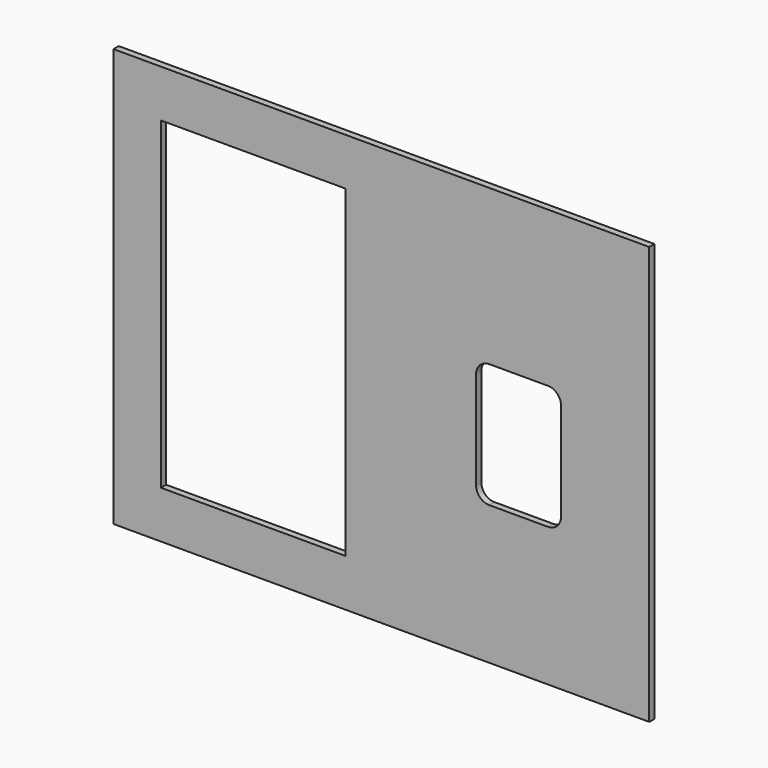
from build123d import *

# Parameters (mm, degrees)
F0_W     = 520.7
F0_H     = 406.4
F0_W_2   = 179.3875
F0_H_2   = 314.325
F1_DEPTH = 6.35


with BuildPart() as f1:
    # F0 (on Front) → F1 (new body)
    with BuildSketch(Plane.XZ):
        Rectangle(F0_W, F0_H)
        with Locations((-124.61875, 0)):
            Rectangle(F0_W_2, F0_H_2, mode=Mode.SUBTRACT)
        with BuildLine():
            ThreePointArc((92.075, 39.6875), (95.794744, 48.667756), (104.775, 52.3875))
            Line((104.775, 52.3875), (161.925, 52.3875))
            ThreePointArc((161.925, 52.3875), (170.905256, 48.667756), (174.625, 39.6875))
            Line((174.625, 39.6875), (174.625, -55.5625))
            ThreePointArc((174.625, -55.5625), (170.905256, -64.542756), (161.925, -68.2625))
            Line((161.925, -68.2625), (104.775, -68.2625))
            ThreePointArc((104.775, -68.2625), (95.794744, -64.542756), (92.075, -55.5625))
            Line((92.075, -55.5625), (92.075, 39.6875))
        make_face(mode=Mode.SUBTRACT)
    extrude(amount=-F1_DEPTH)


solid = f1.part
